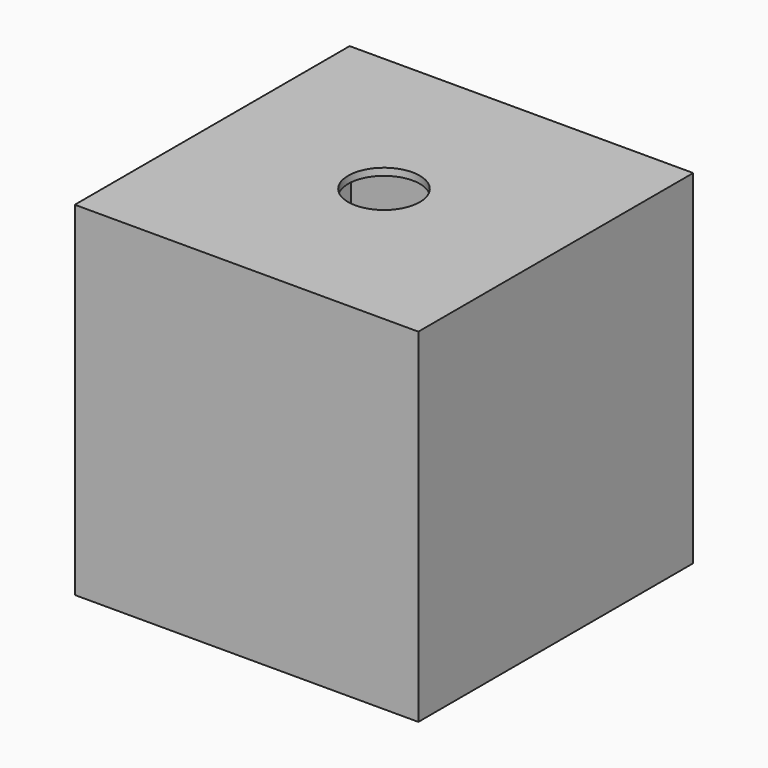
from build123d import *

# Parameters (mm, degrees)
F0_W      = 304.8
F0_H      = 304.8
F0_W_2    = 292.1
F0_H_2    = 292.1
F1_DEPTH  = 152.4
F2_W      = 304.8
F2_H      = 304.8
F3_DEPTH  = 6.35
F5_D      = 0.0254
F5_DEPTH  = 12.7
F6_D      = 0.0254
F6_DEPTH  = 12.7
F8_D      = 0.0254
F8_DEPTH  = 12.7
F9_D      = 0.0254
F9_DEPTH  = 12.7
F12_D     = 0.0254
F12_DEPTH = 12.7
F13_D     = 0.0254
F13_DEPTH = 12.7
F14_D     = 0.0254
F14_DEPTH = 12.7
F15_D     = 0.0254
F15_DEPTH = 12.7
F16_D     = 0.0254
F16_DEPTH = 12.7
F17_D     = 0.0254
F17_DEPTH = 12.7
F19_R     = 31.75
F20_DEPTH = 12.7
F21_R     = 31.75
F22_DEPTH = 25.4


with BuildPart() as f1:
    # F0 (on Top) → F1 (new body, symmetric)
    with BuildSketch(Plane.XY):
        Rectangle(F0_W, F0_H)
        Rectangle(F0_W_2, F0_H_2, mode=Mode.SUBTRACT)
    extrude(amount=F1_DEPTH, both=True)

    # F2 (on face) → F3 (join)
    with BuildSketch(Plane.XY.offset(152.4)):
        Rectangle(F2_W, F2_H)
    extrude(amount=-F3_DEPTH)

    # F5
    with Locations(Plane(origin=(0, 152.4, 0), x_dir=(-1, 0, 0), z_dir=(0, 1, 0))):
        with Locations((38.1, 0)):
            Hole(F5_D / 2, depth=F5_DEPTH)

    # F6
    with Locations(Plane(origin=(0, 152.4, 0), x_dir=(-1, 0, 0), z_dir=(0, 1, 0))):
        with Locations((-106.68, -120.65)):
            Hole(F6_D / 2, depth=F6_DEPTH)

    # F8
    with Locations(Plane.XZ.offset(152.4)):
        with Locations((-106.68, -120.65)):
            Hole(F8_D / 2, depth=F8_DEPTH)

    # F9
    with Locations(Plane.XZ.offset(152.4)):
        with Locations((38.1, 0)):
            Hole(F9_D / 2, depth=F9_DEPTH)

    # F12
    with Locations(Plane.YZ.offset(152.4)):
        with Locations((-114.3, -95.25)):
            Hole(F12_D / 2, depth=F12_DEPTH)

    # F13
    with Locations(Plane.YZ.offset(152.4)):
        with Locations((-120.65, 45.72)):
            Hole(F13_D / 2, depth=F13_DEPTH)

    # F14
    with Locations(Plane(origin=(-152.4, 0, 0), x_dir=(0, -1, 0), z_dir=(-1, 0, 0))):
        with Locations((-114.3, -95.25)):
            Hole(F14_D / 2, depth=F14_DEPTH)

    # F15
    with Locations(Plane(origin=(-152.4, 0, 0), x_dir=(0, -1, 0), z_dir=(-1, 0, 0))):
        with Locations((-120.65, 45.72)):
            Hole(F15_D / 2, depth=F15_DEPTH)

    # F16
    with Locations(Plane(origin=(-152.4, 0, 0), x_dir=(0, -1, 0), z_dir=(-1, 0, 0))):
        with Locations((101.6, 76.2)):
            Hole(F16_D / 2, depth=F16_DEPTH)

    # F17
    with Locations(Plane.YZ.offset(152.4)):
        with Locations((101.6, 76.2)):
            Hole(F17_D / 2, depth=F17_DEPTH)

    # F19 (on offset) → F20 (join)
    with BuildSketch(Plane(origin=(0, 0, -6.35), x_dir=(1, 0, 0), z_dir=(0, 0, -1))):
        with BuildLine():
            Line((120.65, -146.05), (146.05, -146.05))
            Line((146.05, -146.05), (146.05, -120.65))
            Line((146.05, -120.65), (51.063671, -25.663671))
            ThreePointArc((51.063671, -25.663671), (57.15, 0), (51.063671, 25.663671))
            Line((51.063671, 25.663671), (146.05, 120.65))
            Line((146.05, 120.65), (146.05, 146.05))
            Line((146.05, 146.05), (120.65, 146.05))
            Line((120.65, 146.05), (25.663671, 51.063671))
            ThreePointArc((25.663671, 51.063671), (0, 57.15), (-25.663671, 51.063671))
            Line((-25.663671, 51.063671), (-120.65, 146.05))
            Line((-120.65, 146.05), (-146.05, 146.05))
            Line((-146.05, 146.05), (-146.05, 120.65))
            Line((-146.05, 120.65), (-51.063671, 25.663671))
            ThreePointArc((-51.063671, 25.663671), (-57.15, 0), (-51.063671, -25.663671))
            Line((-51.063671, -25.663671), (-146.05, -120.65))
            Line((-146.05, -120.65), (-146.05, -146.05))
            Line((-146.05, -146.05), (-120.65, -146.05))
            Line((-120.65, -146.05), (-25.663671, -51.063671))
            ThreePointArc((-25.663671, -51.063671), (0, -57.15), (25.663671, -51.063671))
            Line((25.663671, -51.063671), (120.65, -146.05))
        make_face()
        Circle(F19_R, mode=Mode.SUBTRACT)
    extrude(amount=F20_DEPTH)

    # F21 (on face) → F22 (cut)
    with BuildSketch(Plane.XY.offset(152.4)):
        Circle(F21_R)
    extrude(amount=-F22_DEPTH, mode=Mode.SUBTRACT)


solid = f1.part
